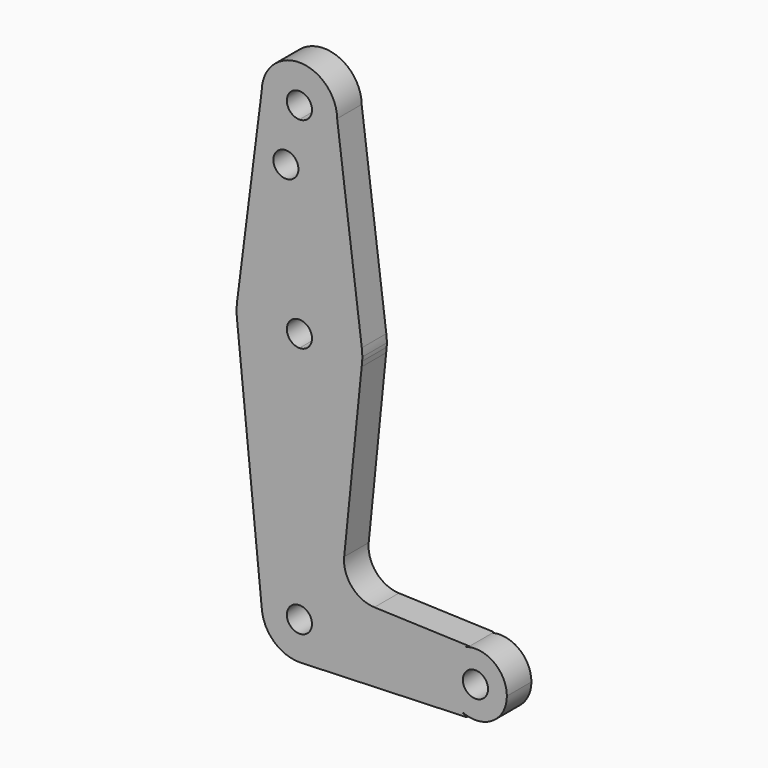
from build123d import *

# Parameters (mm, degrees)
F0_R     = 1.25
F1_DEPTH = 3.048


with BuildPart() as f1:
    # F0 (on Front) → F1 (new body)
    with BuildSketch(Plane.XZ):
        with BuildLine():
            ThreePointArc((-13.7503527926, -8.7067259483), (-17.5, -5.0081634819), (-21.2496472074, -8.7067259483))
            ThreePointArc((-21.2496472074, -8.7067259483), (-20.1697744054, -11.391565203), (-17.5, -12.5081634819))
            ThreePointArc((-17.5, -12.5081634819), (-14.8483495706, -11.4098139114), (-13.75, -8.7581634819))
            ThreePointArc((-13.75, -8.7581634819), (-13.7500881992, -8.7324441102), (-13.7503527926, -8.7067259483))
        make_face()
        with BuildLine():
            ThreePointArc((-16.25, -8.7581634819), (-16.6161165235, -9.6420469584), (-17.5, -10.0081634819))
            ThreePointArc((-17.5, -10.0081634819), (-18.3838834765, -7.8742800054), (-16.25, -8.7581634819))
        make_face(mode=Mode.SUBTRACT)
        with BuildLine():
            Line((-17.5, -12.5081634819), (-17.5, -22.5081634819))
            ThreePointArc((-17.5, -22.5081634819), (-13.3688300189, -24.0681811165), (-11.2999634049, -27.9694644139))
            Line((-11.2999634049, -27.9694644139), (-13.7503527926, -8.7067259483))
            ThreePointArc((-13.7503527926, -8.7067259483), (-13.7500881992, -8.7324441102), (-13.75, -8.7581634819))
            ThreePointArc((-13.75, -8.7581634819), (-14.8483495706, -11.4098139114), (-17.5, -12.5081634819))
        make_face()
        with BuildLine():
            Line((-21.2496472074, -8.7067259483), (-23.7000365951, -27.9694644139))
            ThreePointArc((-23.7000365951, -27.9694644139), (-21.6311699811, -24.0681811165), (-17.5, -22.5081634819))
            Line((-17.5, -22.5081634819), (-17.5, -12.5081634819))
            ThreePointArc((-17.5, -12.5081634819), (-20.1697744054, -11.391565203), (-21.2496472074, -8.7067259483))
        make_face()
        with Locations((-18.8486110419, -14.3781634819)):
            Circle(F0_R, mode=Mode.SUBTRACT)
        with BuildLine():
            ThreePointArc((-23.7050875821, -29.5060860038), (-21.6465638931, -33.4345411271), (-17.5, -35.0081634819))
            Line((-17.5, -35.0081634819), (-17.5, -30.0081634819))
            ThreePointArc((-17.5, -30.0081634819), (-18.75, -28.7581634819), (-17.5, -27.5081634819))
            Line((-17.5, -27.5081634819), (-17.5, -22.5081634819))
            ThreePointArc((-17.5, -22.5081634819), (-21.6311699811, -24.0681811165), (-23.7000365951, -27.9694644139))
            ThreePointArc((-23.7000365951, -27.9694644139), (-23.7499662351, -28.7376193879), (-23.7050875821, -29.5060860038))
        make_face()
        with BuildLine():
            Line((-17.5, -30.0081634819), (-17.5, -35.0081634819))
            ThreePointArc((-17.5, -35.0081634819), (-13.4039872017, -33.4788815582), (-11.3124410695, -29.6394208118))
            Line((-11.3124410695, -29.6394208118), (-11.2612365938, -29.1327714928))
            ThreePointArc((-11.2612365938, -29.1327714928), (-11.25280978, -28.9455517305), (-11.25, -28.7581634819))
            ThreePointArc((-11.25, -28.7581634819), (-11.262503358, -28.3630234555), (-11.2999634049, -27.9694644139))
            ThreePointArc((-11.2999634049, -27.9694644139), (-13.3688300189, -24.0681811165), (-17.5, -22.5081634819))
            Line((-17.5, -22.5081634819), (-17.5, -27.5081634819))
            ThreePointArc((-17.5, -27.5081634819), (-16.6161165235, -27.8742800054), (-16.25, -28.7581634819))
            ThreePointArc((-16.25, -28.7581634819), (-16.6161165235, -29.6420469584), (-17.5, -30.0081634819))
        make_face()
        with BuildLine():
            ThreePointArc((-21.2312214226, -54.1329790301), (-20.2810122533, -51.242518267), (-17.5, -50.0081634819))
            Line((-17.5, -50.0081634819), (-17.5, -35.0081634819))
            ThreePointArc((-17.5, -35.0081634819), (-21.6465638931, -33.4345411271), (-23.7050875821, -29.5060860038))
            Line((-23.7050875821, -29.5060860038), (-21.2312214226, -54.1329790301))
        make_face()
        with BuildLine():
            Line((-17.5, -35.0081634819), (-17.5, -50.0081634819))
            ThreePointArc((-17.5, -50.0081634819), (-14.8483495706, -51.1065130525), (-13.75, -53.7581634819))
            Line((-13.75, -53.7581634819), (-3.125, -53.7581634819))
            ThreePointArc((-3.125, -53.7581634819), (-2.5493346192, -51.9508123817), (-1.0344284803, -50.8093361355))
            Line((-1.0344284803, -50.8093361355), (-0.5966903167, -50.6099408646))
            Line((-0.5966903167, -50.6099408646), (-10.0471059, -50.2734951352))
            ThreePointArc((-10.0471059, -50.2734951352), (-12.2945765973, -49.2028568524), (-13.0498811537, -46.8307468434))
            Line((-13.0498811537, -46.8307468434), (-11.3124410695, -29.6394208118))
            ThreePointArc((-11.3124410695, -29.6394208118), (-13.4039872017, -33.4788815582), (-17.5, -35.0081634819))
        make_face()
        with BuildLine():
            Line((-17.5, -50.0081634819), (-17.5, -52.5081634819))
            ThreePointArc((-17.5, -52.5081634819), (-16.6161165235, -52.8742800054), (-16.25, -53.7581634819))
            Line((-16.25, -53.7581634819), (-13.75, -53.7581634819))
            ThreePointArc((-13.75, -53.7581634819), (-14.8483495706, -51.1065130525), (-17.5, -50.0081634819))
        make_face()
        with BuildLine():
            ThreePointArc((-16.25, -53.7581634819), (-18.3838834765, -54.6420469584), (-17.5, -52.5081634819))
            Line((-17.5, -52.5081634819), (-17.5, -50.0081634819))
            ThreePointArc((-17.5, -50.0081634819), (-20.2810122533, -51.242518267), (-21.2312214226, -54.1329790301))
            ThreePointArc((-21.2312214226, -54.1329790301), (-20.0156452149, -56.5391757352), (-17.5, -57.5081634819))
            Line((-17.5, -57.5081634819), (-17.2333293119, -57.4986696969))
            ThreePointArc((-17.2333293119, -57.4986696969), (-14.7556863262, -56.3137930442), (-13.75, -53.7581634819))
            Line((-13.75, -53.7581634819), (-16.25, -53.7581634819))
        make_face()
        with BuildLine():
            Line((-3.125, -53.7581634819), (-13.75, -53.7581634819))
            ThreePointArc((-13.75, -53.7581634819), (-14.7556863262, -56.3137930442), (-17.2333293119, -57.4986696969))
            Line((-17.2333293119, -57.4986696969), (-0.8860367537, -56.9166871671))
            Line((-0.8860367537, -56.9166871671), (-1.3520150732, -56.5755523869))
            ThreePointArc((-1.3520150732, -56.5755523869), (-2.6448697609, -55.4225819834), (-3.125, -53.7581634819))
        make_face()
        with BuildLine():
            ThreePointArc((-1.0344284803, -50.8093361355), (-2.5493346192, -51.9508123817), (-3.125, -53.7581634819))
            ThreePointArc((-3.125, -53.7581634819), (-2.6448697609, -55.4225819834), (-1.3520150732, -56.5755523869))
            ThreePointArc((-1.3520150732, -56.5755523869), (1.6644185015, -56.4030332428), (3.125, -53.7581634819))
            ThreePointArc((3.125, -53.7581634819), (1.8073511002, -51.2088288627), (-1.0344284803, -50.8093361355))
        make_face()
        with BuildLine():
            ThreePointArc((1.25, -53.7581634819), (0, -55.0081634819), (-1.25, -53.7581634819))
            ThreePointArc((-1.25, -53.7581634819), (0, -52.5081634819), (1.25, -53.7581634819))
        make_face(mode=Mode.SUBTRACT)
    extrude(amount=F1_DEPTH)


solid = f1.part
